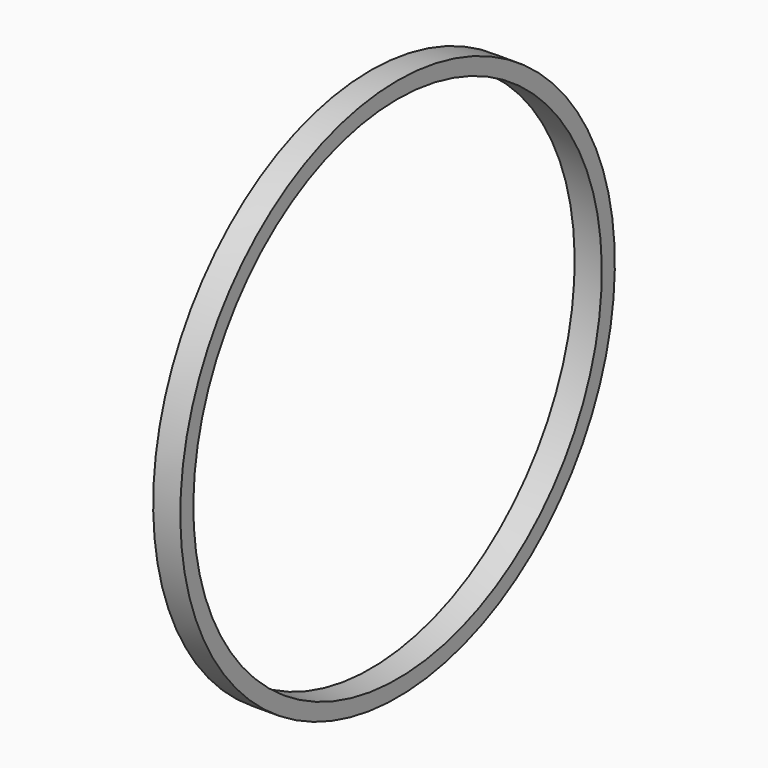
from build123d import *

# Parameters (mm, degrees)
CYLINDER001_R     = 470
CYLINDER001_DEPTH = 50
CYLINDER002_R     = 500
CYLINDER002_DEPTH = 50


with BuildPart() as cilindro001:
    # Cylinder001 → Cylinder001 (new body)
    with BuildSketch(Plane(origin=(1000, 0, 465.754524), x_dir=(0, 0, 1), z_dir=(-1, 0, 0))):
        Circle(CYLINDER001_R)
    extrude(amount=CYLINDER001_DEPTH)


with BuildPart() as cut:
    # Cylinder002 → Cylinder002 (new body)
    with BuildSketch(Plane(origin=(1000, 0, 465.754524), x_dir=(0, 0, 1), z_dir=(-1, 0, 0))):
        Circle(CYLINDER002_R)
    extrude(amount=CYLINDER002_DEPTH)

    # Cut: cut Cilindro001
    add(cilindro001.part, mode=Mode.SUBTRACT)


solid = cut.part
